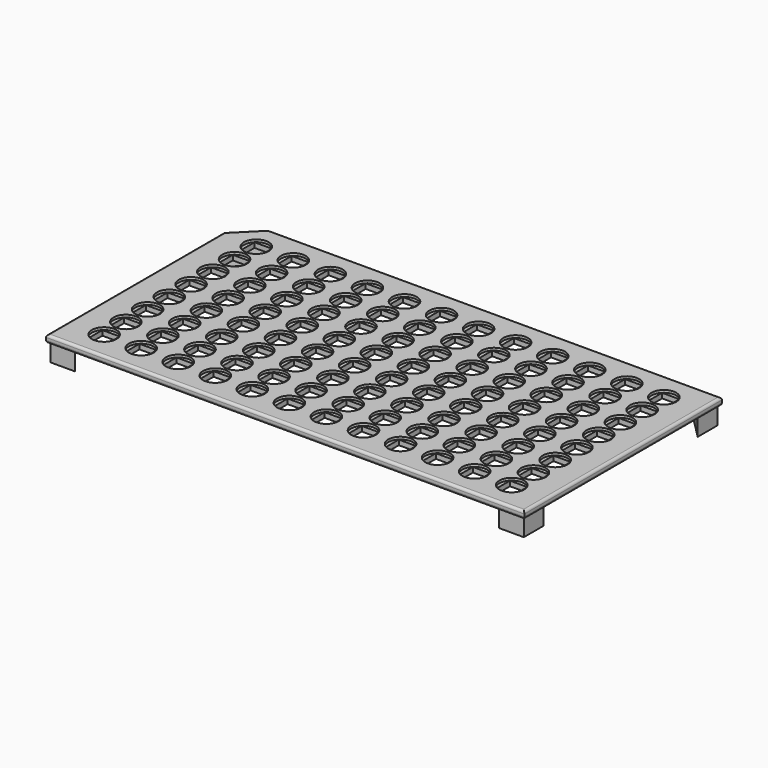
from build123d import *

# Parameters (mm, degrees)
F0_W      = 193.6
F0_H      = 100
F1_DEPTH  = 3
F2_W      = 7
F2_H      = 7
F3_DEPTH  = 3.001
F4_SIZE   = 10
F5_R      = 1
F6_R      = 1
F7_R      = 5
F8_DEPTH  = 1
F10_DEPTH = 7


with BuildPart() as f1:
    # F0 (on Top) → F1 (new body)
    with BuildSketch(Plane.XY):
        Rectangle(F0_W, F0_H)
    extrude(amount=F1_DEPTH)

    # F2 (on face) → F3 (cut, through all)
    with BuildSketch(Plane.XY.offset(3)):
        with Locations((82.5, 38.5)):
            Rectangle(F2_W, F2_H)
        with Locations((67.5, 38.5)):
            Rectangle(F2_W, F2_H)
        with Locations((52.5, 38.5)):
            Rectangle(F2_W, F2_H)
        with Locations((37.5, 38.5)):
            Rectangle(F2_W, F2_H)
        with Locations((22.5, 38.5)):
            Rectangle(F2_W, F2_H)
        with Locations((7.5, 38.5)):
            Rectangle(F2_W, F2_H)
        with Locations((-7.5, 38.5)):
            Rectangle(F2_W, F2_H)
        with Locations((-22.5, 38.5)):
            Rectangle(F2_W, F2_H)
        with Locations((-37.5, 38.5)):
            Rectangle(F2_W, F2_H)
        with Locations((-52.5, 38.5)):
            Rectangle(F2_W, F2_H)
        with Locations((-67.5, 38.5)):
            Rectangle(F2_W, F2_H)
        with Locations((-82.5, 38.5)):
            Rectangle(F2_W, F2_H)
        with Locations((-52.5, 27.5)):
            Rectangle(F2_W, F2_H)
        with Locations((7.5, 27.5)):
            Rectangle(F2_W, F2_H)
        with Locations((-7.5, 27.5)):
            Rectangle(F2_W, F2_H)
        with Locations((-67.5, 27.5)):
            Rectangle(F2_W, F2_H)
        with Locations((-22.5, 27.5)):
            Rectangle(F2_W, F2_H)
        with Locations((-82.5, 27.5)):
            Rectangle(F2_W, F2_H)
        with Locations((-37.5, 27.5)):
            Rectangle(F2_W, F2_H)
        with Locations((22.5, 27.5)):
            Rectangle(F2_W, F2_H)
        with Locations((37.5, 27.5)):
            Rectangle(F2_W, F2_H)
        with Locations((82.5, 27.5)):
            Rectangle(F2_W, F2_H)
        with Locations((67.5, 27.5)):
            Rectangle(F2_W, F2_H)
        with Locations((52.5, 27.5)):
            Rectangle(F2_W, F2_H)
        with Locations((-52.5, 16.5)):
            Rectangle(F2_W, F2_H)
        with Locations((7.5, 16.5)):
            Rectangle(F2_W, F2_H)
        with Locations((-7.5, 16.5)):
            Rectangle(F2_W, F2_H)
        with Locations((-67.5, 16.5)):
            Rectangle(F2_W, F2_H)
        with Locations((-22.5, 16.5)):
            Rectangle(F2_W, F2_H)
        with Locations((-82.5, 16.5)):
            Rectangle(F2_W, F2_H)
        with Locations((-37.5, 16.5)):
            Rectangle(F2_W, F2_H)
        with Locations((22.5, 16.5)):
            Rectangle(F2_W, F2_H)
        with Locations((37.5, 16.5)):
            Rectangle(F2_W, F2_H)
        with Locations((82.5, 16.5)):
            Rectangle(F2_W, F2_H)
        with Locations((67.5, 16.5)):
            Rectangle(F2_W, F2_H)
        with Locations((52.5, 16.5)):
            Rectangle(F2_W, F2_H)
        with Locations((-52.5, 5.5)):
            Rectangle(F2_W, F2_H)
        with Locations((7.5, 5.5)):
            Rectangle(F2_W, F2_H)
        with Locations((-7.5, 5.5)):
            Rectangle(F2_W, F2_H)
        with Locations((-67.5, 5.5)):
            Rectangle(F2_W, F2_H)
        with Locations((-22.5, 5.5)):
            Rectangle(F2_W, F2_H)
        with Locations((-82.5, 5.5)):
            Rectangle(F2_W, F2_H)
        with Locations((-37.5, 5.5)):
            Rectangle(F2_W, F2_H)
        with Locations((22.5, 5.5)):
            Rectangle(F2_W, F2_H)
        with Locations((37.5, 5.5)):
            Rectangle(F2_W, F2_H)
        with Locations((82.5, 5.5)):
            Rectangle(F2_W, F2_H)
        with Locations((67.5, 5.5)):
            Rectangle(F2_W, F2_H)
        with Locations((52.5, 5.5)):
            Rectangle(F2_W, F2_H)
        with Locations((-52.5, -5.5)):
            Rectangle(F2_W, F2_H)
        with Locations((7.5, -5.5)):
            Rectangle(F2_W, F2_H)
        with Locations((-7.5, -5.5)):
            Rectangle(F2_W, F2_H)
        with Locations((-67.5, -5.5)):
            Rectangle(F2_W, F2_H)
        with Locations((-22.5, -5.5)):
            Rectangle(F2_W, F2_H)
        with Locations((-82.5, -5.5)):
            Rectangle(F2_W, F2_H)
        with Locations((-37.5, -5.5)):
            Rectangle(F2_W, F2_H)
        with Locations((22.5, -5.5)):
            Rectangle(F2_W, F2_H)
        with Locations((37.5, -5.5)):
            Rectangle(F2_W, F2_H)
        with Locations((82.5, -5.5)):
            Rectangle(F2_W, F2_H)
        with Locations((67.5, -5.5)):
            Rectangle(F2_W, F2_H)
        with Locations((52.5, -5.5)):
            Rectangle(F2_W, F2_H)
        with Locations((-52.5, -16.5)):
            Rectangle(F2_W, F2_H)
        with Locations((7.5, -16.5)):
            Rectangle(F2_W, F2_H)
        with Locations((-7.5, -16.5)):
            Rectangle(F2_W, F2_H)
        with Locations((-67.5, -16.5)):
            Rectangle(F2_W, F2_H)
        with Locations((-22.5, -16.5)):
            Rectangle(F2_W, F2_H)
        with Locations((-82.5, -16.5)):
            Rectangle(F2_W, F2_H)
        with Locations((-37.5, -16.5)):
            Rectangle(F2_W, F2_H)
        with Locations((22.5, -16.5)):
            Rectangle(F2_W, F2_H)
        with Locations((37.5, -16.5)):
            Rectangle(F2_W, F2_H)
        with Locations((82.5, -16.5)):
            Rectangle(F2_W, F2_H)
        with Locations((67.5, -16.5)):
            Rectangle(F2_W, F2_H)
        with Locations((52.5, -16.5)):
            Rectangle(F2_W, F2_H)
        with Locations((-52.5, -27.5)):
            Rectangle(F2_W, F2_H)
        with Locations((7.5, -27.5)):
            Rectangle(F2_W, F2_H)
        with Locations((-7.5, -27.5)):
            Rectangle(F2_W, F2_H)
        with Locations((-67.5, -27.5)):
            Rectangle(F2_W, F2_H)
        with Locations((-22.5, -27.5)):
            Rectangle(F2_W, F2_H)
        with Locations((-82.5, -27.5)):
            Rectangle(F2_W, F2_H)
        with Locations((-37.5, -27.5)):
            Rectangle(F2_W, F2_H)
        with Locations((22.5, -27.5)):
            Rectangle(F2_W, F2_H)
        with Locations((37.5, -27.5)):
            Rectangle(F2_W, F2_H)
        with Locations((82.5, -27.5)):
            Rectangle(F2_W, F2_H)
        with Locations((67.5, -27.5)):
            Rectangle(F2_W, F2_H)
        with Locations((52.5, -27.5)):
            Rectangle(F2_W, F2_H)
        with Locations((-52.5, -38.5)):
            Rectangle(F2_W, F2_H)
        with Locations((7.5, -38.5)):
            Rectangle(F2_W, F2_H)
        with Locations((-7.5, -38.5)):
            Rectangle(F2_W, F2_H)
        with Locations((-67.5, -38.5)):
            Rectangle(F2_W, F2_H)
        with Locations((-22.5, -38.5)):
            Rectangle(F2_W, F2_H)
        with Locations((-82.5, -38.5)):
            Rectangle(F2_W, F2_H)
        with Locations((-37.5, -38.5)):
            Rectangle(F2_W, F2_H)
        with Locations((22.5, -38.5)):
            Rectangle(F2_W, F2_H)
        with Locations((37.5, -38.5)):
            Rectangle(F2_W, F2_H)
        with Locations((82.5, -38.5)):
            Rectangle(F2_W, F2_H)
        with Locations((67.5, -38.5)):
            Rectangle(F2_W, F2_H)
        with Locations((52.5, -38.5)):
            Rectangle(F2_W, F2_H)
    extrude(amount=-F3_DEPTH, mode=Mode.SUBTRACT)

    # F4
    f4_edges = [f1.edges().sort_by_distance(p)[0] for p in [
        (-96.8, 50, 1.5),
    ]]
    chamfer(f4_edges, length=F4_SIZE)

    # F5
    f5_edges = [f1.edges().sort_by_distance(p)[0] for p in [
        (-96.8, -5, 3),
        (0, -50, 3),
        (96.8, 0, 3),
        (5, 50, 3),
        (-91.8, 45, 3),
    ]]
    fillet(f5_edges, radius=F5_R)

    # F6
    f6_edges = [f1.edges().sort_by_distance(p)[0] for p in [
        (-96.8, -5, 0),
        (0, -50, 0),
        (96.8, 0, 0),
        (5, 50, 0),
        (-91.8, 45, 0),
    ]]
    fillet(f6_edges, radius=F6_R)

    # F7 (on face) → F8 (cut)
    with BuildSketch(Plane.XY.offset(3)):
        with Locations((82.5, 38.5)):
            Circle(F7_R)
        with Locations((82.5, 27.5)):
            Circle(F7_R)
        with Locations((67.5, 38.5)):
            Circle(F7_R)
        with Locations((67.5, 27.5)):
            Circle(F7_R)
        with Locations((52.5, 38.5)):
            Circle(F7_R)
        with Locations((52.5, 27.5)):
            Circle(F7_R)
        with Locations((82.5, 16.5)):
            Circle(F7_R)
        with Locations((82.5, 5.5)):
            Circle(F7_R)
        with Locations((82.5, -5.5)):
            Circle(F7_R)
        with Locations((82.5, -16.5)):
            Circle(F7_R)
        with Locations((82.5, -27.5)):
            Circle(F7_R)
        with Locations((82.5, -38.5)):
            Circle(F7_R)
        with Locations((67.5, 16.5)):
            Circle(F7_R)
        with Locations((67.5, 5.5)):
            Circle(F7_R)
        with Locations((67.5, -5.5)):
            Circle(F7_R)
        with Locations((67.5, -16.5)):
            Circle(F7_R)
        with Locations((67.5, -27.5)):
            Circle(F7_R)
        with Locations((67.5, -38.5)):
            Circle(F7_R)
        with Locations((52.5, 16.5)):
            Circle(F7_R)
        with Locations((52.5, 5.5)):
            Circle(F7_R)
        with Locations((52.5, -5.5)):
            Circle(F7_R)
        with Locations((52.5, -16.5)):
            Circle(F7_R)
        with Locations((52.5, -27.5)):
            Circle(F7_R)
        with Locations((52.5, -38.5)):
            Circle(F7_R)
        with Locations((37.5, 38.5)):
            Circle(F7_R)
        with Locations((37.5, 27.5)):
            Circle(F7_R)
        with Locations((37.5, 16.5)):
            Circle(F7_R)
        with Locations((37.5, 5.5)):
            Circle(F7_R)
        with Locations((37.5, -5.5)):
            Circle(F7_R)
        with Locations((37.5, -16.5)):
            Circle(F7_R)
        with Locations((37.5, -27.5)):
            Circle(F7_R)
        with Locations((37.5, -38.5)):
            Circle(F7_R)
        with Locations((22.5, 38.5)):
            Circle(F7_R)
        with Locations((22.5, 27.5)):
            Circle(F7_R)
        with Locations((22.5, 16.5)):
            Circle(F7_R)
        with Locations((22.5, 5.5)):
            Circle(F7_R)
        with Locations((22.5, -5.5)):
            Circle(F7_R)
        with Locations((22.5, -16.5)):
            Circle(F7_R)
        with Locations((22.5, -27.5)):
            Circle(F7_R)
        with Locations((22.5, -38.5)):
            Circle(F7_R)
        with Locations((7.5, 38.5)):
            Circle(F7_R)
        with Locations((7.5, 27.5)):
            Circle(F7_R)
        with Locations((7.5, 16.5)):
            Circle(F7_R)
        with Locations((7.5, 5.5)):
            Circle(F7_R)
        with Locations((7.5, -5.5)):
            Circle(F7_R)
        with Locations((7.5, -16.5)):
            Circle(F7_R)
        with Locations((7.5, -27.5)):
            Circle(F7_R)
        with Locations((7.5, -38.5)):
            Circle(F7_R)
        with Locations((-7.5, 38.5)):
            Circle(F7_R)
        with Locations((-7.5, 27.5)):
            Circle(F7_R)
        with Locations((-7.5, 16.5)):
            Circle(F7_R)
        with Locations((-7.5, 5.5)):
            Circle(F7_R)
        with Locations((-7.5, -5.5)):
            Circle(F7_R)
        with Locations((-7.5, -16.5)):
            Circle(F7_R)
        with Locations((-7.5, -27.5)):
            Circle(F7_R)
        with Locations((-7.5, -38.5)):
            Circle(F7_R)
        with Locations((-22.5, 38.5)):
            Circle(F7_R)
        with Locations((-22.5, 27.5)):
            Circle(F7_R)
        with Locations((-22.5, 16.5)):
            Circle(F7_R)
        with Locations((-22.5, 5.5)):
            Circle(F7_R)
        with Locations((-22.5, -5.5)):
            Circle(F7_R)
        with Locations((-22.5, -16.5)):
            Circle(F7_R)
        with Locations((-22.5, -27.5)):
            Circle(F7_R)
        with Locations((-22.5, -38.5)):
            Circle(F7_R)
        with Locations((-37.5, 38.5)):
            Circle(F7_R)
        with Locations((-37.5, 27.5)):
            Circle(F7_R)
        with Locations((-37.5, 16.5)):
            Circle(F7_R)
        with Locations((-37.5, 5.5)):
            Circle(F7_R)
        with Locations((-37.5, -5.5)):
            Circle(F7_R)
        with Locations((-37.5, -16.5)):
            Circle(F7_R)
        with Locations((-37.5, -27.5)):
            Circle(F7_R)
        with Locations((-37.5, -38.5)):
            Circle(F7_R)
        with Locations((-52.5, 38.5)):
            Circle(F7_R)
        with Locations((-52.5, 27.5)):
            Circle(F7_R)
        with Locations((-52.5, 16.5)):
            Circle(F7_R)
        with Locations((-52.5, 5.5)):
            Circle(F7_R)
        with Locations((-52.5, -5.5)):
            Circle(F7_R)
        with Locations((-52.5, -16.5)):
            Circle(F7_R)
        with Locations((-52.5, -27.5)):
            Circle(F7_R)
        with Locations((-52.5, -38.5)):
            Circle(F7_R)
        with Locations((-67.5, 38.5)):
            Circle(F7_R)
        with Locations((-67.5, 27.5)):
            Circle(F7_R)
        with Locations((-67.5, 16.5)):
            Circle(F7_R)
        with Locations((-67.5, 5.5)):
            Circle(F7_R)
        with Locations((-67.5, -5.5)):
            Circle(F7_R)
        with Locations((-67.5, -16.5)):
            Circle(F7_R)
        with Locations((-67.5, -27.5)):
            Circle(F7_R)
        with Locations((-67.5, -38.5)):
            Circle(F7_R)
        with Locations((-82.5, 38.5)):
            Circle(F7_R)
        with Locations((-82.5, 27.5)):
            Circle(F7_R)
        with Locations((-82.5, 16.5)):
            Circle(F7_R)
        with Locations((-82.5, 5.5)):
            Circle(F7_R)
        with Locations((-82.5, -5.5)):
            Circle(F7_R)
        with Locations((-82.5, -16.5)):
            Circle(F7_R)
        with Locations((-82.5, -27.5)):
            Circle(F7_R)
        with Locations((-82.5, -38.5)):
            Circle(F7_R)
    extrude(amount=-F8_DEPTH, mode=Mode.SUBTRACT)

    # F9 (on face) → F10 (join)
    with BuildSketch(Plane(origin=(0, 0, 0), x_dir=(1, 0, 0), z_dir=(0, 0, -1))):
        Polygon((-85.8, 49), (-95.8, 49), (-95.8, 39), align=None)
        Polygon((95.8, 49), (85.8, 49), (95.8, 39), align=None)
        Polygon((85.8, -49), (95.8, -49), (95.8, -39), align=None)
        Polygon((-95.8, -34.4106778502), (-95.8, -39.5857864376), (-86.3857864376, -49), (-81.2106778502, -49), align=None)
    extrude(amount=F10_DEPTH)


solid = f1.part
